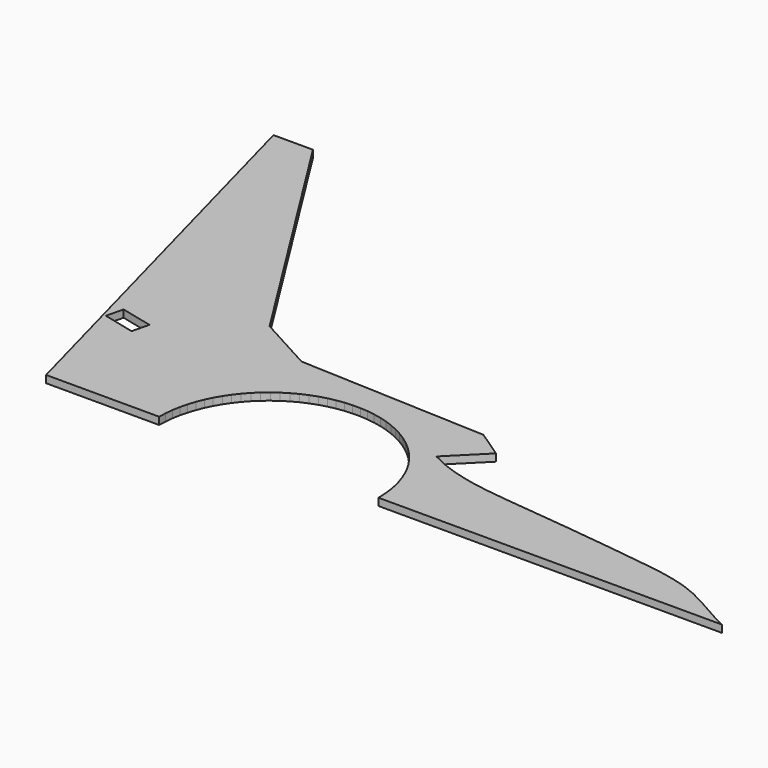
from build123d import *

# Parameters (mm, degrees)
PAD004_DEPTH = 5


with BuildPart() as part:
    # Sketch002 → Pad004 (new body)
    with BuildSketch(Plane.XY):
        with BuildLine():
            add(Edge.make_bspline(
                [(647.934344, -397.985155), (639.25601, -393.575433)],
                knots=[0, 0, 27.593659, 27.593659], degree=1))
            add(Edge.make_bspline(
                [(639.25601, -393.575433), (630.718788, -388.777656)],
                knots=[0, 0, 27.759683, 27.759683], degree=1))
            add(Edge.make_bspline(
                [(630.718788, -388.777656), (622.146289, -383.9446)],
                knots=[0, 0, 27.895878, 27.895878], degree=1))
            add(Edge.make_bspline(
                [(622.146289, -383.9446), (613.3974, -379.534878)],
                knots=[0, 0, 27.772108, 27.772108], degree=1))
            add(Edge.make_bspline(
                [(613.3974, -379.534878), (604.366289, -375.936545)],
                knots=[0, 0, 27.557213, 27.557213], degree=1))
            add(Edge.make_bspline(
                [(604.366289, -375.936545), (594.9824, -373.220156)],
                knots=[0, 0, 27.692057, 27.692057], degree=1))
            add(Edge.make_bspline(
                [(594.9824, -373.220156), (585.386845, -371.209323)],
                knots=[0, 0, 27.790826, 27.790826], degree=1))
            add(Edge.make_bspline(
                [(585.386845, -371.209323), (575.650179, -369.6571)],
                knots=[0, 0, 27.948524, 27.948524], degree=1))
            add(Edge.make_bspline(
                [(575.650179, -369.6571), (545.029068, -365.635434)],
                knots=[0, 0, 87.545417, 87.545417], degree=1))
            add(Edge.make_bspline(
                [(545.029068, -365.635434), (514.584347, -362.037101)],
                knots=[0, 0, 86.90069, 86.90069], degree=1))
            add(Edge.make_bspline(
                [(514.584347, -362.037101), (499.309069, -360.379045)],
                knots=[0, 0, 43.554334, 43.554334], degree=1))
            add(Edge.make_bspline(
                [(499.309069, -360.379045), (483.998514, -358.756267)],
                knots=[0, 0, 43.643098, 43.643098], degree=1))
            add(Edge.make_bspline(
                [(483.998514, -358.756267), (468.687959, -357.13349)],
                knots=[0, 0, 43.643098, 43.643098], degree=1))
            add(Edge.make_bspline(
                [(468.687959, -357.13349), (453.377403, -355.22849)],
                knots=[0, 0, 43.734654, 43.734654], degree=1))
            add(Edge.make_bspline(
                [(453.377403, -355.22849), (443.852404, -353.676267)],
                knots=[0, 0, 27.356169, 27.356169], degree=1))
            add(Edge.make_bspline(
                [(443.852404, -353.676267), (434.433237, -351.630156)],
                knots=[0, 0, 27.322701, 27.322701], degree=1))
            add(Edge.make_bspline(
                [(434.433237, -351.630156), (425.19046, -349.019601)],
                knots=[0, 0, 27.224989, 27.224989], degree=1))
            add(Edge.make_bspline(
                [(425.19046, -349.019601), (416.124071, -345.632934)],
                knots=[0, 0, 27.434467, 27.434467], degree=1))
            add(Edge.make_bspline(
                [(416.124071, -345.632934), (407.304627, -341.364323)],
                knots=[0, 0, 27.774269, 27.774269], degree=1))
            add(Edge.make_bspline(
                [(407.304627, -341.364323), (429.952959, -318.71599)],
                knots=[0, 0, 90.792511, 90.792511], degree=1))
            add(Edge.make_bspline(
                [(429.952959, -318.71599), (411.255738, -306.121824)],
                knots=[0, 0, 63.902191, 63.902191], degree=1))
            add(Edge.make_bspline(
                [(411.255738, -306.121824), (282.421296, -300.618491)],
                knots=[0, 0, 365.533035, 365.533035], degree=1))
            add(Edge.make_bspline(
                [(282.421296, -300.618491), (243.580464, -279.381269)],
                knots=[0, 0, 125.483266, 125.483266], degree=1))
            add(Edge.make_bspline(
                [(243.580464, -279.381269), (134.078244, -105.426551)],
                knots=[0, 0, 582.662655, 582.662655], degree=1))
            add(Edge.make_bspline(
                [(134.078244, -105.426551), (107.055467, -105.426551)],
                knots=[0, 0, 76.6, 76.6], degree=1))
            add(Edge.make_bspline(
                [(107.055467, -105.426551), (185.54852, -397.985155)],
                knots=[0, 0, 858.629571, 858.629571], degree=1))
            add(Edge.make_bspline(
                [(262.947963, -397.985155), (185.54852, -397.985155)],
                knots=[0, 0, 219.4, 219.4], degree=1))
            add(Edge.make_bspline(
                [(263.124352, -392.764044), (262.947963, -397.985155)],
                knots=[0, 0, 14.808444, 14.808444], degree=1))
            add(Edge.make_bspline(
                [(263.653519, -387.542933), (263.124352, -392.764044)],
                knots=[0, 0, 14.875819, 14.875819], degree=1))
            add(Edge.make_bspline(
                [(264.570741, -382.392378), (263.653519, -387.542933)],
                knots=[0, 0, 14.8297, 14.8297], degree=1))
            add(Edge.make_bspline(
                [(265.840741, -377.312378), (264.570741, -382.392378)],
                knots=[0, 0, 14.84318, 14.84318], degree=1))
            add(Edge.make_bspline(
                [(267.463519, -372.338211), (265.840741, -377.312378)],
                knots=[0, 0, 14.831386, 14.831386], degree=1))
            add(Edge.make_bspline(
                [(269.403796, -367.505156), (267.463519, -372.338211)],
                knots=[0, 0, 14.762791, 14.762791], degree=1))
            add(Edge.make_bspline(
                [(271.696852, -362.777934), (269.403796, -367.505156)],
                knots=[0, 0, 14.893287, 14.893287], degree=1))
            add(Edge.make_bspline(
                [(274.342685, -358.262378), (271.696852, -362.777934)],
                knots=[0, 0, 14.835431, 14.835431], degree=1))
            add(Edge.make_bspline(
                [(277.270741, -353.923212), (274.342685, -358.262378)],
                knots=[0, 0, 14.838464, 14.838464], degree=1))
            add(Edge.make_bspline(
                [(280.481018, -349.795712), (277.270741, -353.923212)],
                knots=[0, 0, 14.822281, 14.822281], degree=1))
            add(Edge.make_bspline(
                [(283.973518, -345.879879), (280.481018, -349.795712)],
                knots=[0, 0, 14.873466, 14.873466], degree=1))
            add(Edge.make_bspline(
                [(287.74824, -342.246268), (283.973518, -345.879879)],
                knots=[0, 0, 14.851936, 14.851936], degree=1))
            add(Edge.make_bspline(
                [(291.769907, -338.894879), (287.74824, -342.246268)],
                knots=[0, 0, 14.839474, 14.839474], degree=1))
            add(Edge.make_bspline(
                [(296.00324, -335.825712), (291.769907, -338.894879)],
                knots=[0, 0, 14.821943, 14.821943], degree=1))
            add(Edge.make_bspline(
                [(300.44824, -333.038768), (296.00324, -335.825712)],
                knots=[0, 0, 14.871785, 14.871785], degree=1))
            add(Edge.make_bspline(
                [(305.069629, -330.569324), (300.44824, -333.038768)],
                knots=[0, 0, 14.852946, 14.852946], degree=1))
            add(Edge.make_bspline(
                [(309.832129, -328.452657), (305.069629, -330.569324)],
                knots=[0, 0, 14.773287, 14.773287], degree=1))
            add(Edge.make_bspline(
                [(314.771018, -326.65349), (309.832129, -328.452657)],
                knots=[0, 0, 14.9, 14.9], degree=1))
            add(Edge.make_bspline(
                [(319.780462, -325.207101), (314.771018, -326.65349)],
                knots=[0, 0, 14.780054, 14.780054], degree=1))
            add(Edge.make_bspline(
                [(324.89574, -324.148768), (319.780462, -325.207101)],
                knots=[0, 0, 14.807093, 14.807093], degree=1))
            add(Edge.make_bspline(
                [(330.081573, -323.407935), (324.89574, -324.148768)],
                knots=[0, 0, 14.849242, 14.849242], degree=1))
            add(Edge.make_bspline(
                [(335.302684, -323.055157), (330.081573, -323.407935)],
                knots=[0, 0, 14.833745, 14.833745], degree=1))
            add(Edge.make_bspline(
                [(340.559073, -323.055157), (335.302684, -323.055157)],
                knots=[0, 0, 14.9, 14.9], degree=1))
            add(Edge.make_bspline(
                [(345.780184, -323.407935), (340.559073, -323.055157)],
                knots=[0, 0, 14.833745, 14.833745], degree=1))
            add(Edge.make_bspline(
                [(350.966017, -324.148768), (345.780184, -323.407935)],
                knots=[0, 0, 14.849242, 14.849242], degree=1))
            add(Edge.make_bspline(
                [(356.081294, -325.207101), (350.966017, -324.148768)],
                knots=[0, 0, 14.807093, 14.807093], degree=1))
            add(Edge.make_bspline(
                [(361.126017, -326.65349), (356.081294, -325.207101)],
                knots=[0, 0, 14.876155, 14.876155], degree=1))
            add(Edge.make_bspline(
                [(366.029628, -328.452657), (361.126017, -326.65349)],
                knots=[0, 0, 14.80608, 14.80608], degree=1))
            add(Edge.make_bspline(
                [(370.827405, -330.569324), (366.029628, -328.452657)],
                knots=[0, 0, 14.864723, 14.864723], degree=1))
            add(Edge.make_bspline(
                [(375.448794, -333.038768), (370.827405, -330.569324)],
                knots=[0, 0, 14.852946, 14.852946], degree=1))
            add(Edge.make_bspline(
                [(379.858516, -335.825712), (375.448794, -333.038768)],
                knots=[0, 0, 14.787157, 14.787157], degree=1))
            add(Edge.make_bspline(
                [(384.091849, -338.894879), (379.858516, -335.825712)],
                knots=[0, 0, 14.821943, 14.821943], degree=1))
            add(Edge.make_bspline(
                [(388.113516, -342.246268), (384.091849, -338.894879)],
                knots=[0, 0, 14.839474, 14.839474], degree=1))
            add(Edge.make_bspline(
                [(391.888238, -345.879879), (388.113516, -342.246268)],
                knots=[0, 0, 14.851936, 14.851936], degree=1))
            add(Edge.make_bspline(
                [(395.380738, -349.795712), (391.888238, -345.879879)],
                knots=[0, 0, 14.873466, 14.873466], degree=1))
            add(Edge.make_bspline(
                [(398.626294, -353.923212), (395.380738, -349.795712)],
                knots=[0, 0, 14.883884, 14.883884], degree=1))
            add(Edge.make_bspline(
                [(401.554349, -358.262378), (398.626294, -353.923212)],
                knots=[0, 0, 14.838464, 14.838464], degree=1))
            add(Edge.make_bspline(
                [(404.164905, -362.777934), (401.554349, -358.262378)],
                knots=[0, 0, 14.785128, 14.785128], degree=1))
            add(Edge.make_bspline(
                [(406.45796, -367.505156), (404.164905, -362.777934)],
                knots=[0, 0, 14.893287, 14.893287], degree=1))
            add(Edge.make_bspline(
                [(408.398238, -372.338211), (406.45796, -367.505156)],
                knots=[0, 0, 14.762791, 14.762791], degree=1))
            add(Edge.make_bspline(
                [(410.021015, -377.312378), (408.398238, -372.338211)],
                knots=[0, 0, 14.831386, 14.831386], degree=1))
            add(Edge.make_bspline(
                [(411.291015, -382.392378), (410.021015, -377.312378)],
                knots=[0, 0, 14.84318, 14.84318], degree=1))
            add(Edge.make_bspline(
                [(412.208238, -387.542933), (411.291015, -382.392378)],
                knots=[0, 0, 14.8297, 14.8297], degree=1))
            add(Edge.make_bspline(
                [(412.737404, -392.764044), (412.208238, -387.542933)],
                knots=[0, 0, 14.875819, 14.875819], degree=1))
            add(Edge.make_bspline(
                [(412.949071, -397.985155), (412.737404, -392.764044)],
                knots=[0, 0, 14.812157, 14.812157], degree=1))
            add(Edge.make_bspline(
                [(647.934344, -397.985155), (412.949071, -397.985155)],
                knots=[0, 0, 666.1, 666.1], degree=1))
        make_face()
        with BuildLine():
            add(Edge.make_bspline(
                [(170.555465, -312.930435), (192.427687, -318.222102)],
                knots=[0, 0, 63.788714, 63.788714], degree=1))
            add(Edge.make_bspline(
                [(192.427687, -318.222102), (189.605465, -329.899046)],
                knots=[0, 0, 34.053047, 34.053047], degree=1))
            add(Edge.make_bspline(
                [(189.605465, -329.899046), (167.733243, -324.572101)],
                knots=[0, 0, 63.812303, 63.812303], degree=1))
            add(Edge.make_bspline(
                [(167.733243, -324.572101), (170.555465, -312.930435)],
                knots=[0, 0, 33.955854, 33.955854], degree=1))
        make_face(mode=Mode.SUBTRACT)
    extrude(amount=PAD004_DEPTH)


solid = part.part
